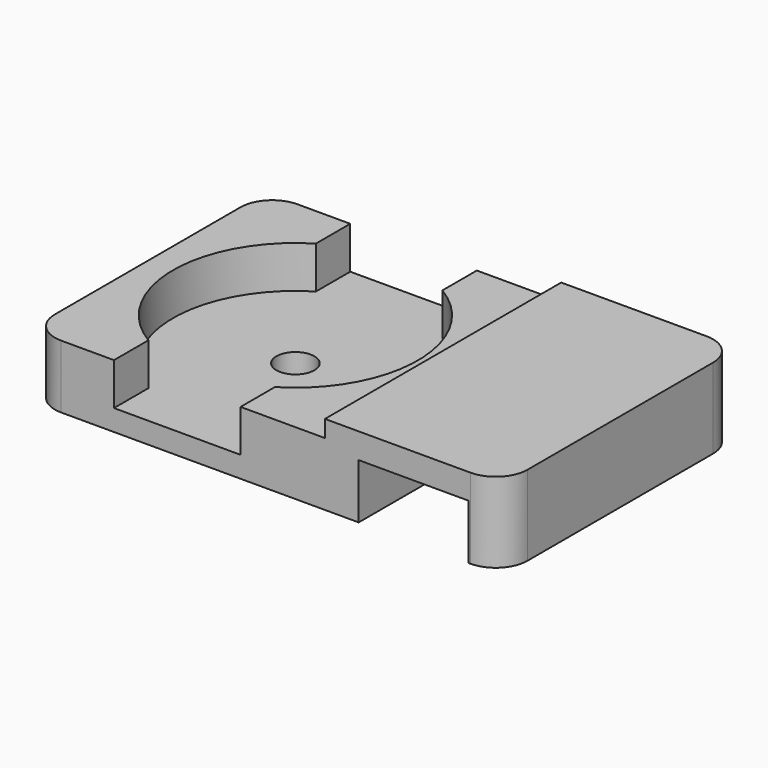
from build123d import *

# Parameters (mm, degrees)
PAD_DEPTH       = 7
SKETCH006_W     = 14
SKETCH006_H     = 14
PAD002_DEPTH    = 3
POCKET004_DEPTH = 2
SKETCH008_R     = 0.9
POCKET005_DEPTH = 1.001
FILLET_R        = 1.5


with BuildPart() as clamp_unit:
    # Sketch → Pad (new body, symmetric)
    with BuildSketch(Plane.XZ):
        Polygon((-2.6, 3.8), (4.2, 3.8), (4.2, 0), (2.6, 0), (2.6, 2.6), (-2.6, 2.6), (-2.6, 0), (-4.2, 0), (-4.2, 3.8), align=None)
    extrude(amount=PAD_DEPTH, both=True)


with BuildPart() as wire_holder_single_rounded:
    # Sketch006 → Pad002 (new body)
    with BuildSketch(Plane.XY):
        Rectangle(SKETCH006_W, SKETCH006_H)
    extrude(amount=PAD002_DEPTH)

    # Sketch007 → Pocket004 (cut)
    with BuildSketch(Plane.XY.offset(3)):
        with BuildLine():
            Line((-3, 7), (-3, 4.963869))
            ThreePointArc((-3, 4.963869), (-5.8, 0), (-3, -4.963869))
            Line((-3, -7), (-3, -4.963869))
            Line((3, -7), (-3, -7))
            Line((3, -4.963869), (3, -7))
            ThreePointArc((3, -4.963869), (5.8, 0), (3, 4.963869))
            Line((3, 7), (3, 4.963869))
            Line((-3, 7), (3, 7))
        make_face()
    extrude(amount=-POCKET004_DEPTH, mode=Mode.SUBTRACT)

    # Sketch008 → Pocket005 (cut, through all)
    with BuildSketch(Plane.XY.offset(1)):
        Circle(SKETCH008_R)
    extrude(amount=-POCKET005_DEPTH, mode=Mode.SUBTRACT)


with BuildPart() as wire_holder_single_rounded_1:
    # Clone placement: moved
    add(wire_holder_single_rounded.part.moved(Location((-11.2, 0, 0))))

    # Fusion: union clamp-unit
    add(clamp_unit.part)

    # Fillet
    fillet_edges = [wire_holder_single_rounded_1.edges().sort_by_distance(p)[0] for p in [
        (-18.2, -7, 1.5),
        (-18.2, 7, 1.5),
        (4.2, 7, 1.9),
        (4.2, -7, 1.9),
    ]]
    fillet(fillet_edges, radius=FILLET_R)


solid = wire_holder_single_rounded_1.part
